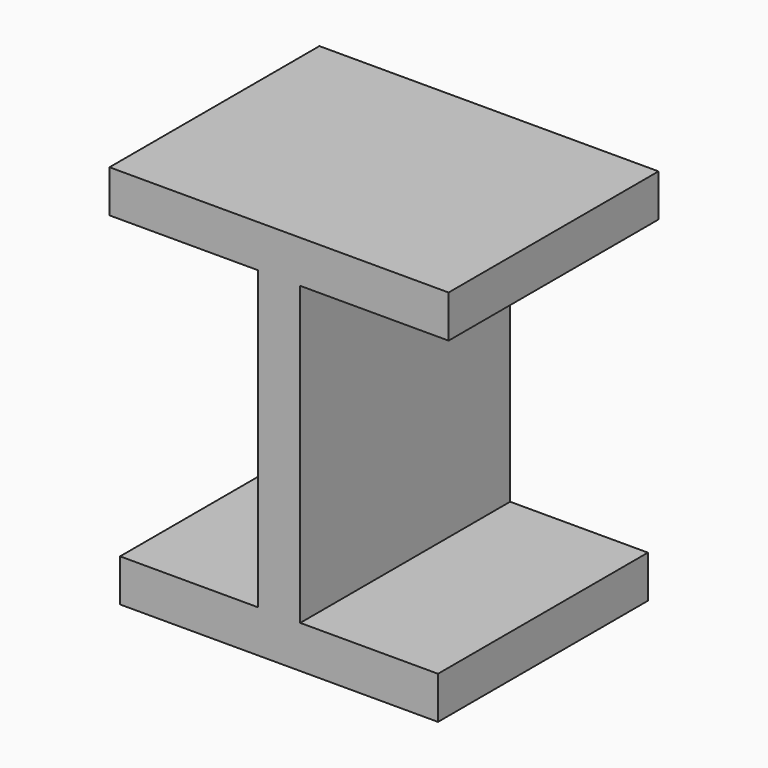
from build123d import *

# Parameters (mm, degrees)
F1_DEPTH = 75.8
F2_DEPTH = 48


with BuildPart() as f1:
    # F0 (on Front) → F1 (new body)
    with BuildSketch(Plane.XZ):
        Polygon((80, 90), (-80, 90), (-80, 70), (-10, 70), (-10, -70), (-75, -70), (-75, -90), (75, -90), (75, -70), (10, -70), (10, 70), (80, 70), align=None)
    extrude(amount=F1_DEPTH)

    # F0 (on Front) → F2 (join, symmetric)
    with BuildSketch(Plane.XZ):
        Polygon((80, 90), (-80, 90), (-80, 70), (-10, 70), (-10, -70), (-75, -70), (-75, -90), (75, -90), (75, -70), (10, -70), (10, 70), (80, 70), align=None)
    extrude(amount=F2_DEPTH, both=True)


solid = f1.part
